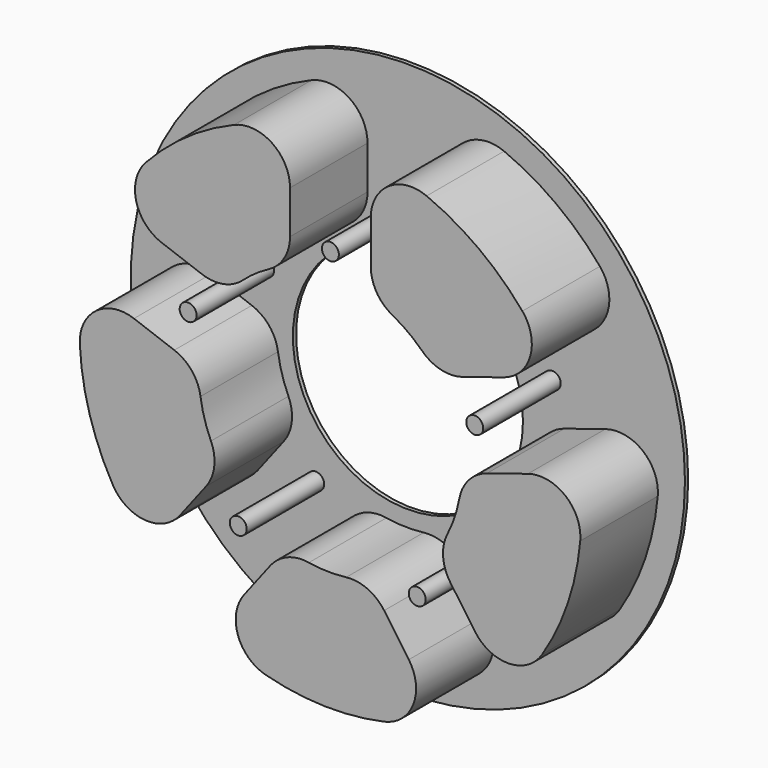
from build123d import *

# Parameters (mm, degrees)
F0_R     = 68.635064
F0_R_2   = 2.1
F0_R_3   = 28.5
F1_DEPTH = 1
F2_DEPTH = 25
F3_R     = 10


with BuildPart() as f1:
    # F0 (on Front) → F1 (new body)
    with BuildSketch(Plane.XZ):
        Circle(F0_R)
        with Locations((-22.828554, -29.75075)):
            Circle(F0_R_2, mode=Mode.SUBTRACT)
        with Locations((21.509116, -30.718202)):
            Circle(F0_R_2, mode=Mode.SUBTRACT)
        with BuildLine():
            ThreePointArc((-10, 30.923292), (0, 32.5), (10, 30.923292))
            Line((10, 30.923292), (10, 61.325086))
            ThreePointArc((10, 61.325086), (36.741063, 50.108487), (55.479716, 27.977979))
            Line((55.479716, 27.977979), (26.48501, 18.835983))
            ThreePointArc((26.48501, 18.835983), (30.959755, 9.886536), (32.5, 0))
            ThreePointArc((32.5, 0), (32.499781, -0.119179), (32.499126, -0.238356))
            Line((32.499126, -0.238356), (61.493832, 8.90364))
            ThreePointArc((61.493832, 8.90364), (58.837564, -19.972662), (43.366145, -44.498805))
            Line((43.366145, -44.498805), (25.928392, -19.595114))
            ThreePointArc((25.928392, -19.595114), (18.641234, -26.622441), (9.545351, -31.066642))
            Line((9.545351, -31.066642), (26.983104, -55.970334))
            ThreePointArc((26.983104, -55.970334), (-1.355469, -62.120278), (-29.398814, -54.740076))
            Line((-29.398814, -54.740076), (-10.891374, -30.620711))
            ThreePointArc((-10.891374, -30.620711), (-19.784746, -25.783984), (-26.758441, -18.445483))
            Line((-26.758441, -18.445483), (-45.265881, -42.564848))
            ThreePointArc((-45.265881, -42.564848), (-59.652759, -17.387194), (-61.046932, 11.577489))
            Line((-61.046932, 11.577489), (-32.478591, 1.179463))
            ThreePointArc((-32.478591, 1.179463), (-30.54001, 11.115655), (-25.638188, 19.973315))
            Line((-25.638188, 19.973315), (-54.20653, 30.371341))
            ThreePointArc((-54.20653, 30.371341), (-35.639209, 50.898065), (-10, 61.325086))
            Line((-10, 61.325086), (-10, 30.923292))
        make_face(mode=Mode.SUBTRACT)
        with Locations((-35.238473, 12.825755)):
            Circle(F0_R_2, mode=Mode.SUBTRACT)
        with Locations((35.764386, 11.276467)):
            Circle(F0_R_2, mode=Mode.SUBTRACT)
        with Locations((0, 37.5)):
            Circle(F0_R_2, mode=Mode.SUBTRACT)
        with BuildLine():
            Line((10, 61.325086), (10, 30.923292))
            ThreePointArc((10, 30.923292), (19.217564, 26.20945), (26.48501, 18.835983))
            Line((26.48501, 18.835983), (55.479716, 27.977979))
            ThreePointArc((55.479716, 27.977979), (36.741063, 50.108487), (10, 61.325086))
        make_face()
        with BuildLine():
            ThreePointArc((-25.638188, 19.973315), (-18.641234, 26.622441), (-10, 30.923292))
            Line((-10, 30.923292), (-10, 61.325086))
            ThreePointArc((-10, 61.325086), (-35.639209, 50.898065), (-54.20653, 30.371341))
            Line((-54.20653, 30.371341), (-25.638188, 19.973315))
        make_face()
        with Locations((0, 37.5)):
            Circle(F0_R_2)
        with Locations((35.764386, 11.276467)):
            Circle(F0_R_2)
        with BuildLine():
            Line((61.493832, 8.90364), (32.499126, -0.238356))
            ThreePointArc((32.499126, -0.238356), (30.775229, -10.446783), (25.928392, -19.595114))
            Line((25.928392, -19.595114), (43.366145, -44.498805))
            ThreePointArc((43.366145, -44.498805), (58.837564, -19.972662), (61.493832, 8.90364))
        make_face()
        with BuildLine():
            Line((26.983104, -55.970334), (9.545351, -31.066642))
            ThreePointArc((9.545351, -31.066642), (-0.708984, -32.492266), (-10.891374, -30.620711))
            Line((-10.891374, -30.620711), (-29.398814, -54.740076))
            ThreePointArc((-29.398814, -54.740076), (-1.355469, -62.120278), (26.983104, -55.970334))
        make_face()
        with BuildLine():
            ThreePointArc((-26.758441, -18.445483), (-31.20162, -9.094443), (-32.478591, 1.179463))
            Line((-32.478591, 1.179463), (-61.046932, 11.577489))
            ThreePointArc((-61.046932, 11.577489), (-59.652759, -17.387194), (-45.265881, -42.564848))
            Line((-45.265881, -42.564848), (-26.758441, -18.445483))
        make_face()
        with Locations((-35.238473, 12.825755)):
            Circle(F0_R_2)
        with BuildLine():
            ThreePointArc((26.48501, 18.835983), (19.217564, 26.20945), (10, 30.923292))
            ThreePointArc((10, 30.923292), (0, 32.5), (-10, 30.923292))
            ThreePointArc((-10, 30.923292), (-18.641234, 26.622441), (-25.638188, 19.973315))
            ThreePointArc((-25.638188, 19.973315), (-30.54001, 11.115655), (-32.478591, 1.179463))
            ThreePointArc((-32.478591, 1.179463), (-31.20162, -9.094443), (-26.758441, -18.445483))
            ThreePointArc((-26.758441, -18.445483), (-19.784746, -25.783984), (-10.891374, -30.620711))
            ThreePointArc((-10.891374, -30.620711), (-0.708984, -32.492266), (9.545351, -31.066642))
            ThreePointArc((9.545351, -31.066642), (18.641234, -26.622441), (25.928392, -19.595114))
            ThreePointArc((25.928392, -19.595114), (30.775229, -10.446783), (32.499126, -0.238356))
            ThreePointArc((32.499126, -0.238356), (32.499781, -0.119179), (32.5, 0))
            ThreePointArc((32.5, 0), (30.959755, 9.886536), (26.48501, 18.835983))
        make_face()
        Circle(F0_R_3, mode=Mode.SUBTRACT)
        with Locations((21.509116, -30.718202)):
            Circle(F0_R_2)
        with Locations((-22.828554, -29.75075)):
            Circle(F0_R_2)
    extrude(amount=F1_DEPTH)

    # F0 (on Front) → F2 (join)
    with BuildSketch(Plane.XZ):
        with BuildLine():
            Line((10, 61.325086), (10, 30.923292))
            ThreePointArc((10, 30.923292), (19.217564, 26.20945), (26.48501, 18.835983))
            Line((26.48501, 18.835983), (55.479716, 27.977979))
            ThreePointArc((55.479716, 27.977979), (36.741063, 50.108487), (10, 61.325086))
        make_face()
        with BuildLine():
            ThreePointArc((-25.638188, 19.973315), (-18.641234, 26.622441), (-10, 30.923292))
            Line((-10, 30.923292), (-10, 61.325086))
            ThreePointArc((-10, 61.325086), (-35.639209, 50.898065), (-54.20653, 30.371341))
            Line((-54.20653, 30.371341), (-25.638188, 19.973315))
        make_face()
        with BuildLine():
            ThreePointArc((-26.758441, -18.445483), (-31.20162, -9.094443), (-32.478591, 1.179463))
            Line((-32.478591, 1.179463), (-61.046932, 11.577489))
            ThreePointArc((-61.046932, 11.577489), (-59.652759, -17.387194), (-45.265881, -42.564848))
            Line((-45.265881, -42.564848), (-26.758441, -18.445483))
        make_face()
        with BuildLine():
            Line((26.983104, -55.970334), (9.545351, -31.066642))
            ThreePointArc((9.545351, -31.066642), (-0.708984, -32.492266), (-10.891374, -30.620711))
            Line((-10.891374, -30.620711), (-29.398814, -54.740076))
            ThreePointArc((-29.398814, -54.740076), (-1.355469, -62.120278), (26.983104, -55.970334))
        make_face()
        with BuildLine():
            Line((61.493832, 8.90364), (32.499126, -0.238356))
            ThreePointArc((32.499126, -0.238356), (30.775229, -10.446783), (25.928392, -19.595114))
            Line((25.928392, -19.595114), (43.366145, -44.498805))
            ThreePointArc((43.366145, -44.498805), (58.837564, -19.972662), (61.493832, 8.90364))
        make_face()
        with Locations((35.764386, 11.276467)):
            Circle(F0_R_2)
        with Locations((21.509116, -30.718202)):
            Circle(F0_R_2)
        with Locations((-22.828554, -29.75075)):
            Circle(F0_R_2)
        with Locations((-35.238473, 12.825755)):
            Circle(F0_R_2)
        with Locations((0, 37.5)):
            Circle(F0_R_2)
    extrude(amount=F2_DEPTH)

    # F3
    f3_edges = [f1.edges().sort_by_distance(p)[0] for p in [
        (-54.20653, -13, 30.371341),
        (-25.638188, -13, 19.973315),
        (-10, -13, 30.923292),
        (-10, -13, 61.325086),
        (-32.478591, -13, 1.179463),
        (-26.758441, -13, -18.445483),
        (-61.046932, -13, 11.577489),
        (-45.265881, -13, -42.564848),
        (-29.398814, -13, -54.740076),
        (26.983104, -13, -55.970334),
        (9.545351, -13, -31.066642),
        (-10.891374, -13, -30.620711),
        (32.499126, -13, -0.238356),
        (25.928392, -13, -19.595114),
        (43.366145, -13, -44.498805),
        (61.493832, -13, 8.90364),
        (55.479716, -13, 27.977979),
        (10, -13, 61.325086),
        (10, -13, 30.923292),
        (26.48501, -13, 18.835983),
    ]]
    fillet(f3_edges, radius=F3_R)


solid = f1.part
